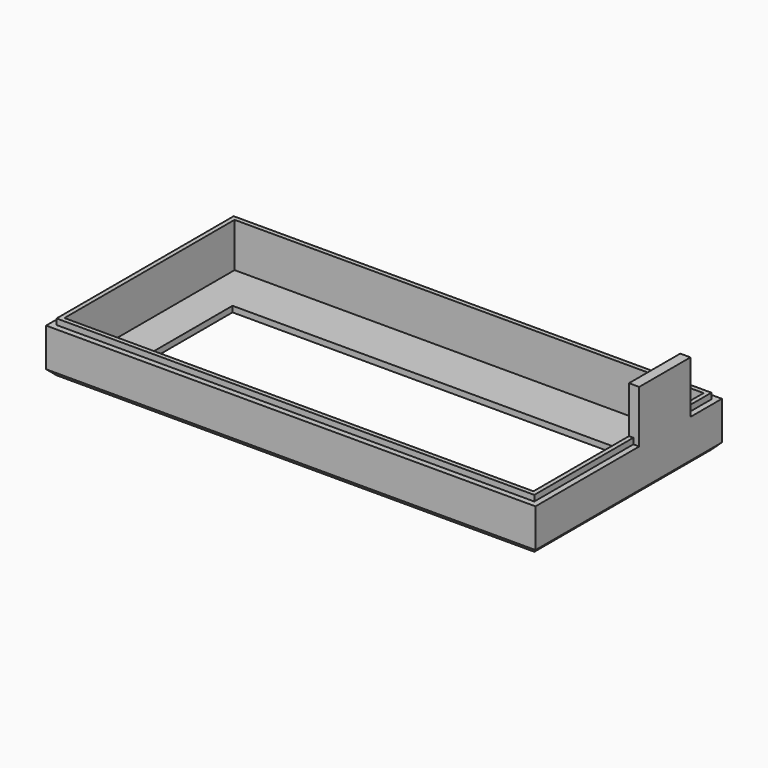
from build123d import *

# Parameters (mm, degrees)
F0_W     = 84
F0_H     = 40
F0_R     = 1.45
F1_DEPTH = 1
F2_DEPTH = 7.6
F3_W     = 82
F3_H     = 38
F3_W_2   = 80.5
F3_H_2   = 36.5
F4_DEPTH = 1
F5_W     = 68
F5_H     = 20
F6_DEPTH = 5
F7_W     = 11
F7_H     = 13.6534924152
F8_DEPTH = 1.75
F9_SIZE  = 1


with BuildPart() as f1:
    # F0 (on Top) → F1 (new body)
    with BuildSketch(Plane.XY):
        with Locations((-0.3290896534, 0.19)):
            Rectangle(F0_W, F0_H)
        Polygon((-40.5790896534, 13.39), (-40.5790896534, 18.44), (-35.5290896534, 18.44), (34.8709103466, 18.44), (39.9209103466, 18.44), (39.9209103466, 13.39), (39.9209103466, -13.01), (39.9209103466, -18.06), (34.8709103466, -18.06), (-35.5290896534, -18.06), (-40.5790896534, -18.06), (-40.5790896534, -13.01), align=None, mode=Mode.SUBTRACT)
        with BuildLine():
            Line((34.8709103466, 18.44), (-35.5290896534, 18.44))
            Line((-35.5290896534, 18.44), (-35.5290896534, 15.89))
            ThreePointArc((-35.5290896534, 15.89), (-36.2613227005, 14.122233047), (-38.0290896534, 13.39))
            Line((-38.0290896534, 13.39), (-40.5790896534, 13.39))
            Line((-40.5790896534, 13.39), (-40.5790896534, -13.01))
            Line((-40.5790896534, -13.01), (-38.0290896534, -13.01))
            ThreePointArc((-38.0290896534, -13.01), (-36.2613227005, -13.742233047), (-35.5290896534, -15.51))
            Line((-35.5290896534, -15.51), (-35.5290896534, -18.06))
            Line((-35.5290896534, -18.06), (34.8709103466, -18.06))
            Line((34.8709103466, -18.06), (34.8709103466, -15.51))
            ThreePointArc((34.8709103466, -15.51), (35.6031433936, -13.742233047), (37.3709103466, -13.01))
            Line((37.3709103466, -13.01), (39.9209103466, -13.01))
            Line((39.9209103466, -13.01), (39.9209103466, 13.39))
            Line((39.9209103466, 13.39), (37.3709103466, 13.39))
            ThreePointArc((37.3709103466, 13.39), (35.6031433936, 14.122233047), (34.8709103466, 15.89))
            Line((34.8709103466, 15.89), (34.8709103466, 18.44))
        make_face()
        with BuildLine():
            Line((-35.5290896534, 18.44), (-40.5790896534, 18.44))
            Line((-40.5790896534, 18.44), (-40.5790896534, 13.39))
            Line((-40.5790896534, 13.39), (-38.0290896534, 13.39))
            ThreePointArc((-38.0290896534, 13.39), (-36.2613227005, 14.122233047), (-35.5290896534, 15.89))
            Line((-35.5290896534, 15.89), (-35.5290896534, 18.44))
        make_face()
        with Locations((-38.0290896534, 15.89)):
            Circle(F0_R, mode=Mode.SUBTRACT)
        with BuildLine():
            Line((39.9209103466, 18.44), (34.8709103466, 18.44))
            Line((34.8709103466, 18.44), (34.8709103466, 15.89))
            ThreePointArc((34.8709103466, 15.89), (35.6031433936, 14.122233047), (37.3709103466, 13.39))
            Line((37.3709103466, 13.39), (39.9209103466, 13.39))
            Line((39.9209103466, 13.39), (39.9209103466, 18.44))
        make_face()
        with Locations((37.3709103466, 15.89)):
            Circle(F0_R, mode=Mode.SUBTRACT)
        with BuildLine():
            Line((-38.0290896534, -13.01), (-40.5790896534, -13.01))
            Line((-40.5790896534, -13.01), (-40.5790896534, -18.06))
            Line((-40.5790896534, -18.06), (-35.5290896534, -18.06))
            Line((-35.5290896534, -18.06), (-35.5290896534, -15.51))
            ThreePointArc((-35.5290896534, -15.51), (-36.2613227005, -13.742233047), (-38.0290896534, -13.01))
        make_face()
        with Locations((-38.0290896534, -15.51)):
            Circle(F0_R, mode=Mode.SUBTRACT)
        with BuildLine():
            Line((39.9209103466, -18.06), (39.9209103466, -13.01))
            Line((39.9209103466, -13.01), (37.3709103466, -13.01))
            ThreePointArc((37.3709103466, -13.01), (35.6031433936, -13.742233047), (34.8709103466, -15.51))
            Line((34.8709103466, -15.51), (34.8709103466, -18.06))
            Line((34.8709103466, -18.06), (39.9209103466, -18.06))
        make_face()
        with Locations((37.3709103466, -15.51)):
            Circle(F0_R, mode=Mode.SUBTRACT)
        with Locations((-38.0290896534, 15.89)):
            Circle(F0_R)
        with Locations((-38.0290896534, -15.51)):
            Circle(F0_R)
        with Locations((37.3709103466, 15.89)):
            Circle(F0_R)
        with Locations((37.3709103466, -15.51)):
            Circle(F0_R)
    extrude(amount=F1_DEPTH)

    # F0 (on Top) → F2 (join)
    with BuildSketch(Plane.XY):
        with Locations((-0.3290896534, 0.19)):
            Rectangle(F0_W, F0_H)
        Polygon((-40.5790896534, 13.39), (-40.5790896534, 18.44), (-35.5290896534, 18.44), (34.8709103466, 18.44), (39.9209103466, 18.44), (39.9209103466, 13.39), (39.9209103466, -13.01), (39.9209103466, -18.06), (34.8709103466, -18.06), (-35.5290896534, -18.06), (-40.5790896534, -18.06), (-40.5790896534, -13.01), align=None, mode=Mode.SUBTRACT)
    extrude(amount=F2_DEPTH)

    # F3 (on face) → F4 (join)
    with BuildSketch(Plane.XY.offset(7.6)):
        with Locations((-0.3290896534, 0.19)):
            Rectangle(F3_W, F3_H)
        with Locations((-0.3290896534, 0.19)):
            Rectangle(F3_W_2, F3_H_2, mode=Mode.SUBTRACT)
    extrude(amount=F4_DEPTH)

    # F5 (on face) → F6 (cut)
    with BuildSketch(Plane.XY):
        with Locations((-0.3290896534, 0.19)):
            Rectangle(F5_W, F5_H)
    extrude(amount=F6_DEPTH, mode=Mode.SUBTRACT)

    # F7 (on face) → F8 (join)
    with BuildSketch(Plane.YZ.offset(41.6709103466)):
        with Locations((7.94, 9.7732537924)):
            Rectangle(F7_W, F7_H)
    extrude(amount=-F8_DEPTH)

    # F9
    f9_edges = [f1.edges().sort_by_distance(p)[0] for p in [
        (-0.32909, -19.81, 0),
        (41.67091, 0.19, 0),
        (-0.32909, 20.19, 0),
        (-42.32909, 0.19, 0),
    ]]
    chamfer(f9_edges, length=F9_SIZE)


solid = f1.part
